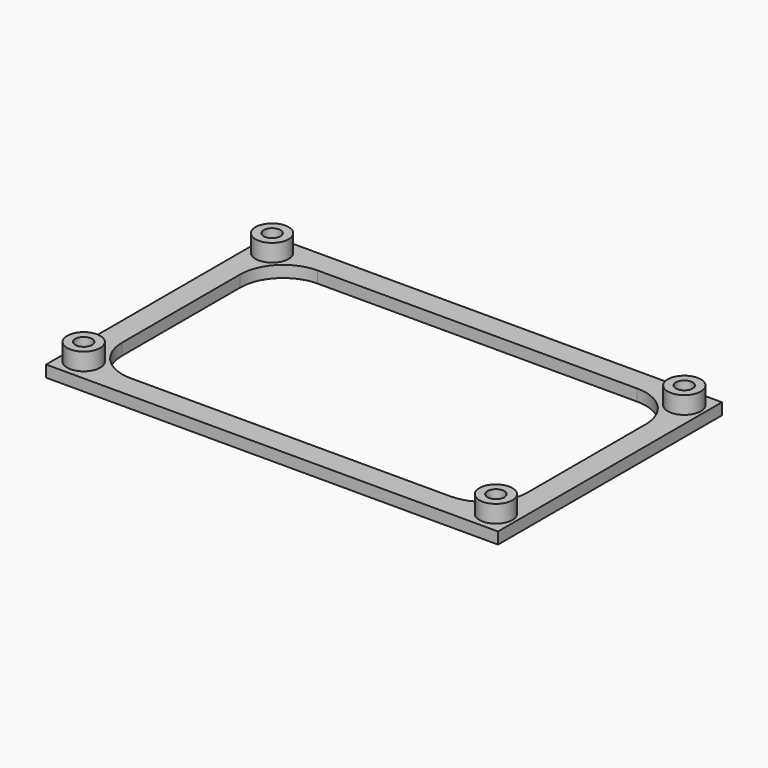
from build123d import *

# Parameters (mm, degrees)
SKETCH_W        = 78
SKETCH_H        = 48.3
PAD_DEPTH       = 2
SKETCH001_R     = 1.45
POCKET_DEPTH    = 2.001
SKETCH002_R     = 2.85
SKETCH002_R_2   = 1.45
PAD001_DEPTH    = 3
POCKET001_DEPTH = 2.001


with BuildPart() as part:
    # Sketch → Pad (new body)
    with BuildSketch(Plane.XY):
        Rectangle(SKETCH_W, SKETCH_H)
    extrude(amount=PAD_DEPTH)

    # Sketch001 (on Face6 of Pad) → Pocket (cut, through all)
    with BuildSketch(Plane.XY.offset(2)):
        with Locations((-35.57, 20.32)):
            Circle(SKETCH001_R)
        with Locations((35.57, 20.32)):
            Circle(SKETCH001_R)
        with Locations((-35.57, -20.32)):
            Circle(SKETCH001_R)
        with Locations((35.57, -20.32)):
            Circle(SKETCH001_R)
    extrude(amount=-POCKET_DEPTH, mode=Mode.SUBTRACT)

    # Sketch002 (on Face5 of Pocket) → Pad001 (join)
    with BuildSketch(Plane.XY.offset(2)):
        with Locations((-35.57, 20.32)):
            Circle(SKETCH002_R)
        with Locations((-35.57, 20.32)):
            Circle(SKETCH002_R_2, mode=Mode.SUBTRACT)
        with Locations((35.57, 20.32)):
            Circle(SKETCH002_R)
        with Locations((35.57, 20.32)):
            Circle(SKETCH002_R_2, mode=Mode.SUBTRACT)
        with Locations((35.57, -20.32)):
            Circle(SKETCH002_R)
        with Locations((35.57, -20.32)):
            Circle(SKETCH002_R_2, mode=Mode.SUBTRACT)
        with Locations((-35.57, -20.32)):
            Circle(SKETCH002_R)
        with Locations((-35.57, -20.32)):
            Circle(SKETCH002_R_2, mode=Mode.SUBTRACT)
    extrude(amount=PAD001_DEPTH)

    # Sketch003 (on Face5 of Pad001) → Pocket001 (cut, through all)
    with BuildSketch(Plane.XY.offset(2)):
        with BuildLine():
            Line((-27.578066, 20.15), (27.578066, 20.15))
            ThreePointArc((35, 12.728066), (32.826166, 17.976166), (27.578066, 20.15))
            Line((35, 12.728066), (35, -12.728066))
            ThreePointArc((27.578066, -20.15), (32.826166, -17.976166), (35, -12.728066))
            Line((27.578066, -20.15), (-27.578066, -20.15))
            ThreePointArc((-35, -12.728066), (-32.826166, -17.976166), (-27.578066, -20.15))
            Line((-35, -12.728066), (-35, 12.728066))
            ThreePointArc((-27.578066, 20.15), (-32.826166, 17.976166), (-35, 12.728066))
        make_face()
    extrude(amount=-POCKET001_DEPTH, mode=Mode.SUBTRACT)


solid = part.part
